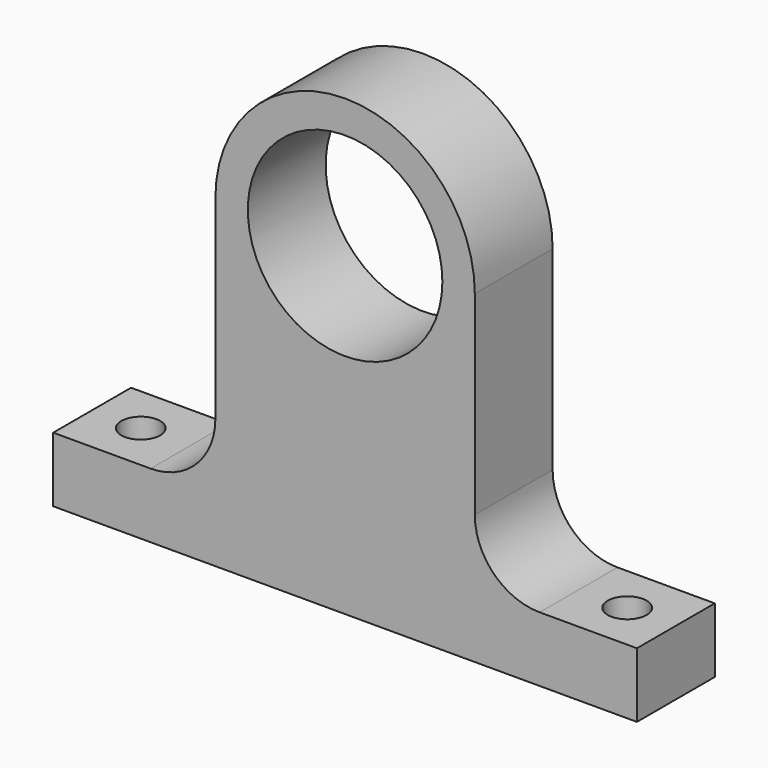
from build123d import *

# Parameters (mm, degrees)
F1_DEPTH = 4.7625
F2_R     = 6.35
F4_D     = 3.81


with BuildPart() as f1:
    # F0 (on Front) → F1 (new body, symmetric)
    with BuildSketch(Plane.XZ):
        with BuildLine():
            Line((12.7, -25.4), (12.7, 0))
            ThreePointArc((12.7, 0), (0, 12.7), (-12.7, 0))
            Line((-12.7, 0), (-12.7, -25.4))
            Line((-12.7, -25.4), (-28.575, -25.4))
            Line((-28.575, -25.4), (-28.575, -31.75))
            Line((-28.575, -31.75), (28.575, -31.75))
            Line((28.575, -31.75), (28.575, -25.4))
            Line((28.575, -25.4), (12.7, -25.4))
        make_face()
        with BuildLine():
            ThreePointArc((-9.525, 1e-08), (5e-09, 9.525), (9.525, 0))
            ThreePointArc((9.525, 0), (-5e-09, -9.525), (-9.525, 1e-08))
        make_face(mode=Mode.SUBTRACT)
    extrude(amount=F1_DEPTH, both=True)

    # F2
    f2_edges = [f1.edges().sort_by_distance(p)[0] for p in [
        (-12.7, 0, -25.4),
        (12.7, 0, -25.4),
    ]]
    fillet(f2_edges, radius=F2_R)

    # F4 (through all)
    with Locations(Plane(origin=(0, 0, -31.75), x_dir=(1, 0, 0), z_dir=(0, 0, -1))):
        with Locations((-23.8125, 0), (23.8125, 0)):
            Hole(F4_D / 2)


solid = f1.part
